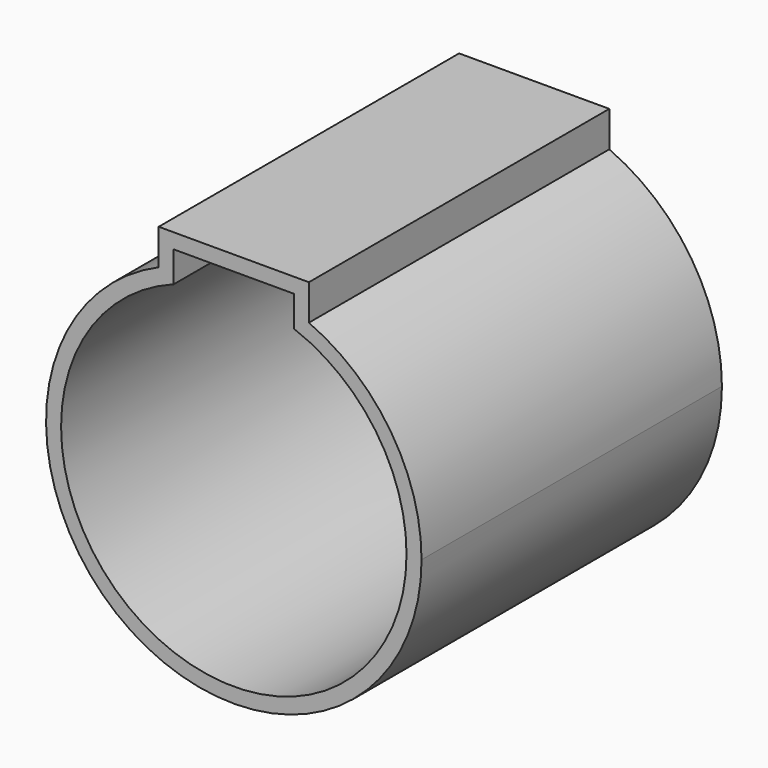
from build123d import *

# Parameters (mm, degrees)
F1_DEPTH = 63.5
F2_T     = -2.54


with BuildPart() as f1:
    # F0 (on Front) → F1 (new body)
    with BuildSketch(Plane.XZ):
        with BuildLine():
            ThreePointArc((-12.7, 29.099355663), (0, 31.75), (12.7, 29.099355663))
            Line((12.7, 29.099355663), (12.7, 35.1254418492))
            Line((12.7, 35.1254418492), (-12.7, 35.1254418492))
            Line((-12.7, 35.1254418492), (-12.7, 29.099355663))
        make_face()
        with BuildLine():
            ThreePointArc((-12.7, 29.099355663), (-17.3901912008, -26.5639558425), (31.75, 0))
            ThreePointArc((31.75, 0), (26.5639558425, 17.3901912008), (12.7, 29.099355663))
            Line((12.7, 29.099355663), (12.7, 28.3745581508))
            Line((12.7, 28.3745581508), (6.3699584668, 28.3745581508))
            ThreePointArc((6.3699584668, 28.3745581508), (22.7039126469, 18.1720739499), (29.0807826772, 0))
            ThreePointArc((29.0807826772, 0), (-18.1720739499, -22.7039126469), (-6.3699584668, 28.3745581508))
            Line((-6.3699584668, 28.3745581508), (-12.7, 28.3745581508))
            Line((-12.7, 28.3745581508), (-12.7, 29.099355663))
        make_face()
        with BuildLine():
            ThreePointArc((29.0807826772, 0), (22.7039126469, 18.1720739499), (6.3699584668, 28.3745581508))
            Line((6.3699584668, 28.3745581508), (-6.3699584668, 28.3745581508))
            ThreePointArc((-6.3699584668, 28.3745581508), (-18.1720739499, -22.7039126469), (29.0807826772, 0))
        make_face()
        with BuildLine():
            Line((-6.3699584668, 28.3745581508), (6.3699584668, 28.3745581508))
            ThreePointArc((6.3699584668, 28.3745581508), (0, 29.0807826772), (-6.3699584668, 28.3745581508))
        make_face()
        with BuildLine():
            Line((12.7, 28.3745581508), (12.7, 29.099355663))
            ThreePointArc((12.7, 29.099355663), (0, 31.75), (-12.7, 29.099355663))
            Line((-12.7, 29.099355663), (-12.7, 28.3745581508))
            Line((-12.7, 28.3745581508), (-6.3699584668, 28.3745581508))
            ThreePointArc((-6.3699584668, 28.3745581508), (0, 29.0807826772), (6.3699584668, 28.3745581508))
            Line((6.3699584668, 28.3745581508), (12.7, 28.3745581508))
        make_face()
    extrude(amount=F1_DEPTH)

    # F2
    f2_openings = [f1.faces().sort_by_distance(p)[0] for p in [
        (0, -63.5, 1.083948),
    ]]
    offset(amount=F2_T, openings=f2_openings, kind=Kind.INTERSECTION)


solid = f1.part
